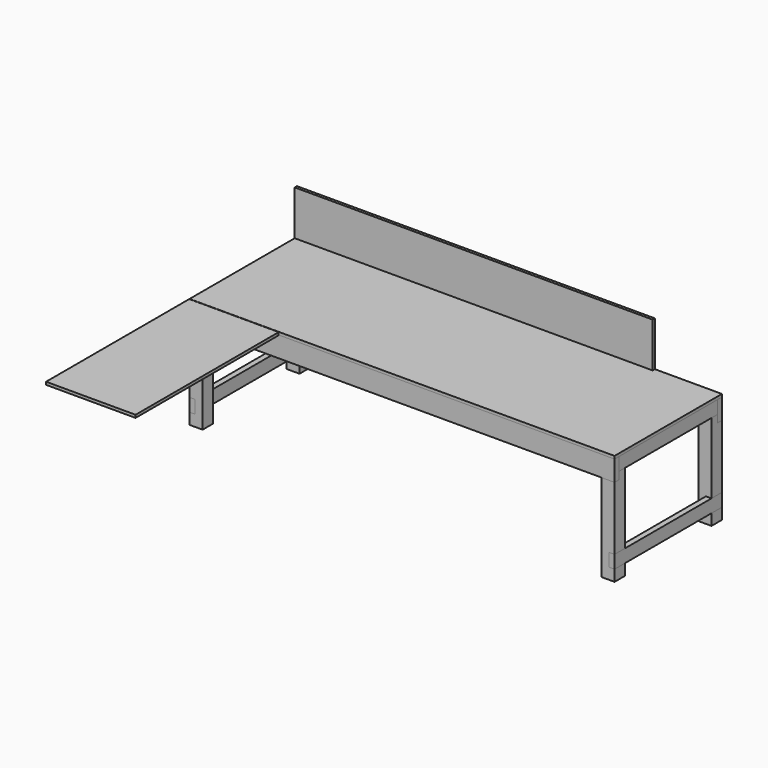
from build123d import *

# Parameters (mm, degrees)
F0_W      = 88.9
F0_H      = 88.9
F1_DEPTH  = 736.6
F2_W      = 88.9
F2_H      = 88.9
F3_DEPTH  = 19.05
F2_W_2    = 609.6
F2_H_2    = 1219.2
F4_W      = 38.1
F4_H      = 88.9
F5_DEPTH  = 914.4
F6_W      = 38.1
F6_H      = 139.7
F7_DEPTH  = 2895.6
F8_W      = 38.1
F8_H      = 838.2
F9_DEPTH  = 88.9
F10_W     = 2438.4
F10_H     = 19.05
F11_DEPTH = 304.8


with BuildPart() as f1:
    # F0 (on Top) → F1 (new body)
    with BuildSketch(Plane.XY):
        with Locations((44.45, -44.45)):
            Rectangle(F0_W, F0_H)
    extrude(amount=F1_DEPTH)


with BuildPart() as f1b:
    # F0 (on Top) → F1, piece 2 (new body)
    with BuildSketch(Plane.XY):
        with Locations((44.45, 781.05)):
            Rectangle(F0_W, F0_H)
    extrude(amount=F1_DEPTH)


with BuildPart() as f1c:
    # F0 (on Top) → F1, piece 3 (new body)
    with BuildSketch(Plane.XY):
        with Locations((2851.15, -44.45)):
            Rectangle(F0_W, F0_H)
    extrude(amount=F1_DEPTH)


with BuildPart() as f1d:
    # F0 (on Top) → F1, piece 4 (new body)
    with BuildSketch(Plane.XY):
        with Locations((2851.15, 781.05)):
            Rectangle(F0_W, F0_H)
    extrude(amount=F1_DEPTH)


with BuildPart() as f3:
    # F2 (on face) → F3 (new body)
    with BuildSketch(Plane.XY.offset(736.6)):
        with Locations((44.45, -44.45)):
            Rectangle(F2_W, F2_H)
        Polygon((88.9, 0), (88.9, -88.9), (2895.6, -88.9), (2895.6, 825.5), (0, 825.5), (0, 0), align=None)
    extrude(amount=F3_DEPTH)

    # F10 (on face) → F11 (join)
    with BuildSketch(Plane.XY.offset(755.65)):
        with Locations((1219.2, 815.975)):
            Rectangle(F10_W, F10_H)
    extrude(amount=F11_DEPTH)


with BuildPart() as f3b:
    # F2 (on face) → F3, piece 2 (new body)
    with BuildSketch(Plane.XY.offset(736.6)):
        with Locations((304.8, -701.04)):
            Rectangle(F2_W_2, F2_H_2)
    extrude(amount=F3_DEPTH)


with BuildPart() as f5:
    # F4 (on face) → F5 (new body, through all)
    with BuildSketch(Plane(origin=(0, 825.5, 0), x_dir=(-1, 0, 0), z_dir=(0, 1, 0))):
        with Locations((-2876.55, 692.15)):
            Rectangle(F4_W, F4_H)
    extrude(amount=-F5_DEPTH)


with BuildPart() as f5b:
    # F4 (on face) → F5, piece 2 (new body, through all)
    with BuildSketch(Plane(origin=(0, 825.5, 0), x_dir=(-1, 0, 0), z_dir=(0, 1, 0))):
        with Locations((-2876.55, 120.65)):
            Rectangle(F4_W, F4_H)
    extrude(amount=-F5_DEPTH)


with BuildPart() as f5c:
    # F4 (on face) → F5, piece 3 (new body, through all)
    with BuildSketch(Plane(origin=(0, 825.5, 0), x_dir=(-1, 0, 0), z_dir=(0, 1, 0))):
        with Locations((-19.05, 692.15)):
            Rectangle(F4_W, F4_H)
    extrude(amount=-F5_DEPTH)


with BuildPart() as f5d:
    # F4 (on face) → F5, piece 4 (new body, through all)
    with BuildSketch(Plane(origin=(0, 825.5, 0), x_dir=(-1, 0, 0), z_dir=(0, 1, 0))):
        with Locations((-19.05, 120.65)):
            Rectangle(F4_W, F4_H)
    extrude(amount=-F5_DEPTH)


with BuildPart() as f7:
    # F6 (on face) → F7 (new body, through all)
    with BuildSketch(Plane.YZ.offset(2895.6)):
        with Locations((-69.85, 666.75)):
            Rectangle(F6_W, F6_H)
    extrude(amount=-F7_DEPTH)


with BuildPart() as f7b:
    # F6 (on face) → F7, piece 2 (new body, through all)
    with BuildSketch(Plane.YZ.offset(2895.6)):
        with Locations((806.45, 666.75)):
            Rectangle(F6_W, F6_H)
    extrude(amount=-F7_DEPTH)


with BuildPart() as f9:
    # F8 (on face) → F9 (new body)
    with BuildSketch(Plane(origin=(0, 0, 736.6), x_dir=(1, 0, 0), z_dir=(0, 0, -1))):
        with Locations((577.85, -368.3)):
            Rectangle(F8_W, F8_H)
    extrude(amount=F9_DEPTH)


with BuildPart() as f9b:
    # F8 (on face) → F9, piece 2 (new body)
    with BuildSketch(Plane(origin=(0, 0, 736.6), x_dir=(1, 0, 0), z_dir=(0, 0, -1))):
        with Locations((1187.45, -368.3)):
            Rectangle(F8_W, F8_H)
    extrude(amount=F9_DEPTH)


with BuildPart() as f9c:
    # F8 (on face) → F9, piece 3 (new body)
    with BuildSketch(Plane(origin=(0, 0, 736.6), x_dir=(1, 0, 0), z_dir=(0, 0, -1))):
        with Locations((1797.05, -368.3)):
            Rectangle(F8_W, F8_H)
    extrude(amount=F9_DEPTH)


with BuildPart() as f9d:
    # F8 (on face) → F9, piece 4 (new body)
    with BuildSketch(Plane(origin=(0, 0, 736.6), x_dir=(1, 0, 0), z_dir=(0, 0, -1))):
        with Locations((2406.65, -368.3)):
            Rectangle(F8_W, F8_H)
    extrude(amount=F9_DEPTH)


solid = Compound([f1.part, f1b.part, f1c.part, f1d.part, f3.part, f3b.part, f5.part, f5b.part, f5c.part, f5d.part, f7.part, f7b.part, f9.part, f9b.part, f9c.part, f9d.part])
